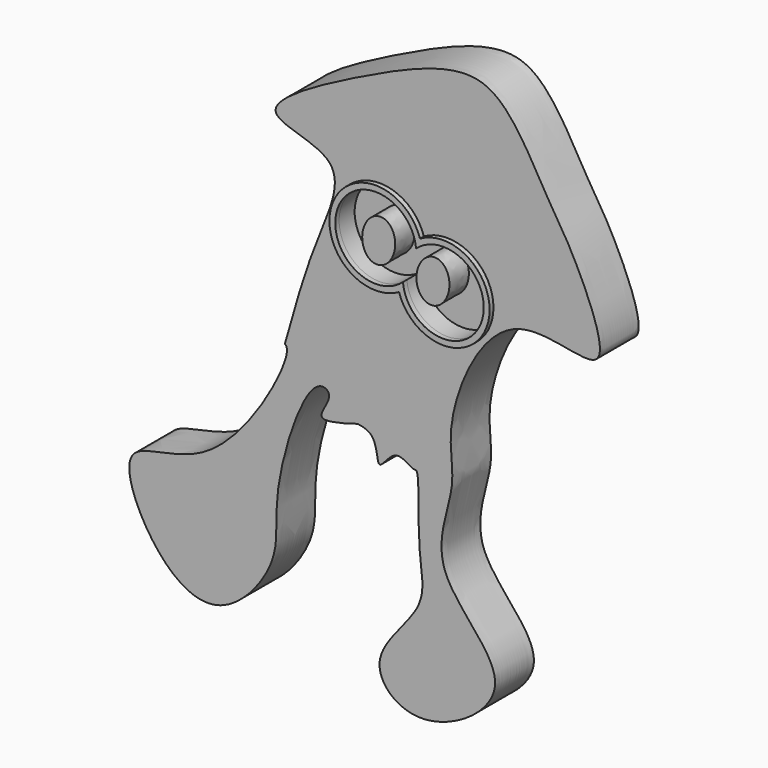
from build123d import *

# Parameters (mm, degrees)
F1_DEPTH = 6.35
F3_DEPTH = 2.54
F5_DEPTH = 3.175
F7_DEPTH = 0.635


with BuildPart() as f1:
    # F0 (on Front) → F1 (new body)
    with BuildSketch(Plane.XZ):
        with BuildLine():
            add(Edge.make_bspline(
                [(24.6278885752, 20.0943965465), (23.7064800375, 21.749349657), (22.762829066, 22.834690774), (18.4960223659, 31.0154594629), (13.3273808786, 36.344614332), (5.0883150601, 34.0069188334), (-0.2579655639, 31.4890145854), (-3.4842541137, 29.9786332235), (-19.1788529412, 21.7865022367), (-2.7261660602, 20.6763685682), (-9.2264062103, 8.9186030751), (-12.2644964054, -3.3669089496), (-12.4422066102, -3.5998480893), (-11.0701838098, -4.4617490897), (-20.7422338214, -22.9279143399), (-35.7952781349, -20.2045800859), (-29.5080416261, -34.2931205942), (-20.6817381541, -38.8996540544), (-12.4684397133, -28.7700571881), (-14.5843554481, -21.6055906185), (-9.3250856264, -5.5215767382), (-5.6610891263, -7.6412659776), (-9.77679612, -12.0167786897), (-2.8925648601, -9.7082984932), (-2.9140020447, -9.7382386704), (-0.1503228609, -9.817983677), (-0.5227332774, -15.2353760748), (1.9721238181, -10.5410877), (4.2748797573, -12.7817802034), (5.3330933825, -12.1806389837), (4.6916621177, -21.9814703232), (6.8401736772, -28.2376045414), (-2.861283488, -36.0328148135), (5.1704203769, -43.7563905099), (20.5487230192, -33.7674005839), (5.2545233439, -23.6888798183), (10.6022149127, -12.650103767), (7.9258643302, -6.0929327206), (15.7758842201, 12.7052761587), (33.0510774649, 3.4074865896), (26.3210997723, 17.0531992678), (24.6278885752, 20.0943965465)],
                knots=[0, 0, 0, 0, 0.0193592947, 0.0486679457, 0.0750861611, 0.1031175571, 0.1267452715, 0.1484732747, 0.1824875788, 0.2102116524, 0.2437109078, 0.2789161374, 0.2822285334, 0.2902173493, 0.3329470941, 0.365687188, 0.3983793333, 0.4276671496, 0.4594047869, 0.4887605283, 0.526965865, 0.5393835673, 0.5563875106, 0.57795549, 0.5783061714, 0.5925149146, 0.6103008659, 0.6268289437, 0.6423381707, 0.649375704, 0.6784183793, 0.7051139677, 0.7360009136, 0.7625148923, 0.7972722079, 0.8331245118, 0.864744027, 0.8918841103, 0.9323121366, 0.9644247115, 1, 1, 1, 1], degree=3))
        make_face()
    extrude(amount=F1_DEPTH)

    # F2 (on face) → F3 (cut)
    with BuildSketch(Plane.XZ.offset(6.35)):
        with BuildLine():
            ThreePointArc((3.5586746082, 8.9722968299), (4.8465767827, 10.7527630242), (5.3019517214, 12.9025038332))
            ThreePointArc((5.3019517214, 12.9025038332), (5.2963407756, 13.1463612597), (5.2795198142, 13.3897025477))
            ThreePointArc((5.2795198142, 13.3897025477), (3.8978717122, 11.3840483691), (3.5586746082, 8.9722968299))
        make_face()
        with BuildLine():
            ThreePointArc((5.2795198142, 13.3897025477), (5.2963407756, 13.1463612597), (5.3019517214, 12.9025038332))
            ThreePointArc((5.3019517214, 12.9025038332), (4.8465767827, 10.7527630242), (3.5586746082, 8.9722968299))
            ThreePointArc((3.5586746082, 8.9722968299), (9.082051849, 4.1631547688), (14.1401461438, 9.4594955444))
            ThreePointArc((14.1401461438, 9.4594955444), (10.9879352313, 14.3060723271), (5.2795198142, 13.3897025477))
        make_face()
        with BuildLine():
            ThreePointArc((3.5586746082, 8.9722968299), (3.8978717122, 11.3840483691), (5.2795198142, 13.3897025477))
            ThreePointArc((5.2795198142, 13.3897025477), (-4.9403227102, 14.8270566578), (3.5586746082, 8.9722968299))
        make_face()
    extrude(amount=-F3_DEPTH, mode=Mode.SUBTRACT)

    # F4 (on face) → F5 (join)
    with BuildSketch(Plane.XZ.offset(3.81)):
        with BuildLine():
            add(Edge.make_bspline(
                [(6.9493502378, 7.5513473712), (10.5701526638, 6.8550390501), (9.5667066058, 11.3993590387), (8.5632605478, 15.9436790273), (5.9459041799, 12.0956673598), (3.3285478119, 8.2476556923), (6.9493502378, 7.5513473712)],
                knots=[0, 0, 0, 2.0943951024, 2.0943951024, 4.1887902048, 4.1887902048, 6.2831853072, 6.2831853072, 6.2831853072], degree=2, weights=[1, 0.5, 1, 0.5, 1, 0.5, 1]))
        make_face()
        with BuildLine():
            add(Edge.make_bspline(
                [(-0.1518525823, 9.918414522), (3.4689498436, 9.2221062009), (2.4655037856, 13.7664261894), (1.4620577276, 18.310746178), (-1.1552986403, 14.4627345106), (-3.7726550083, 10.6147228431), (-0.1518525823, 9.918414522)],
                knots=[0, 0, 0, 2.0943951024, 2.0943951024, 4.1887902048, 4.1887902048, 6.2831853072, 6.2831853072, 6.2831853072], degree=2, weights=[1, 0.5, 1, 0.5, 1, 0.5, 1]))
        make_face()
    extrude(amount=F5_DEPTH)

    # F6 (on face) → F7 (join)
    with BuildSketch(Plane.XZ.offset(6.35)):
        with BuildLine():
            ThreePointArc((5.7907708029, 14.7020826694), (-5.6503491501, 15.1036546597), (3.0474236195, 7.6599167082))
            ThreePointArc((3.0474236195, 7.6599167082), (14.4885435725, 7.2583447179), (5.7907708029, 14.7020826694))
        make_face()
        with BuildLine():
            ThreePointArc((3.5586746082, 8.9722968299), (-4.9403227102, 14.8270566578), (5.2795198142, 13.3897025477))
            ThreePointArc((5.2795198142, 13.3897025477), (13.7785171327, 7.5349427198), (3.5586746082, 8.9722968299))
        make_face(mode=Mode.SUBTRACT)
    extrude(amount=F7_DEPTH)


solid = f1.part
